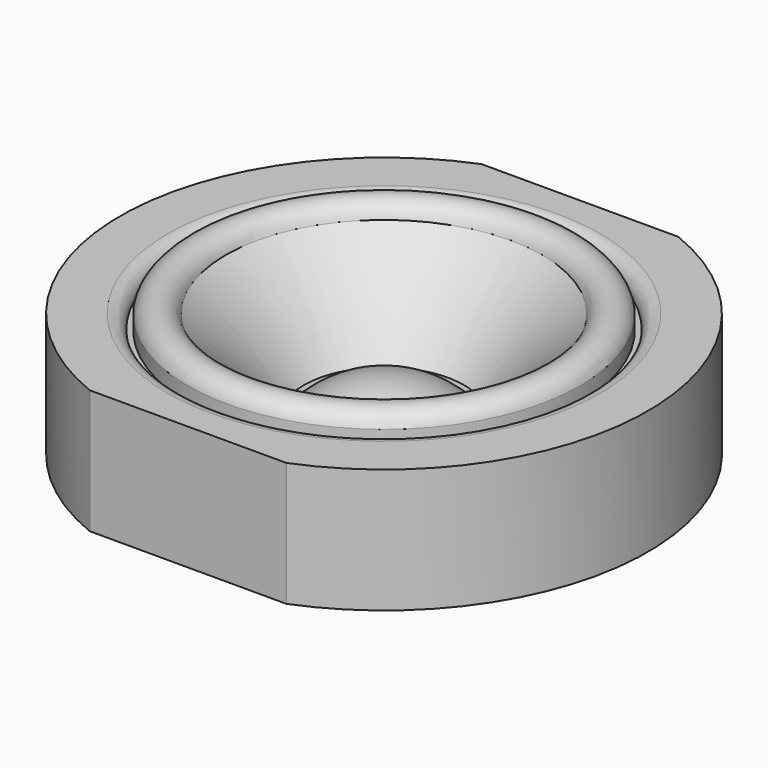
from build123d import *

# Parameters (mm, degrees)
F3_DEPTH = 41.798657


with BuildPart() as f1:
    # F0 (on Front) → F1 (revolve)
    with BuildSketch(Plane.XZ):
        with BuildLine():
            ThreePointArc((-27, -30), (-38.886788, -13.87103), (-53.330974, 0.01439))
            ThreePointArc((-53.330974, 0.01439), (-59.670879, 4.754114), (-66, 0))
            Line((-66, 0), (-66, -4.929408))
            Line((-66, -4.929408), (-67.825363, -4.929408))
            ThreePointArc((-67.825363, -4.929408), (-69.314377, -1.439596), (-72.824865, 0))
            Line((-72.824865, 0), (-88.9, 0))
            Line((-88.9, 0), (-88.9, -41.797657))
            Line((-88.9, -41.797657), (0, -41.797657))
            Line((0, -41.797657), (0, -20))
            ThreePointArc((0, -20), (-13.47012, -22.5747), (-25, -30))
            Line((-25, -30), (-27, -30))
        make_face()
    revolve(axis=Axis((0, 0, -11.485694), (0, 0, -1)))

    # F2 (on face) → F3 (cut, through all)
    with BuildSketch(Plane.XY):
        Polygon((-59.565999, 82.5), (-33.120386, 82.5), (33.120386, 82.5), (63.941218, 82.5), (-2.141983, 104.541838), align=None)
        Polygon((33.120386, -82.5), (-33.120386, -82.5), (-49.083836, -82.5), (6.972946, -111.715175), (56.649286, -82.5), align=None)
    extrude(amount=-F3_DEPTH, mode=Mode.SUBTRACT)


solid = f1.part
